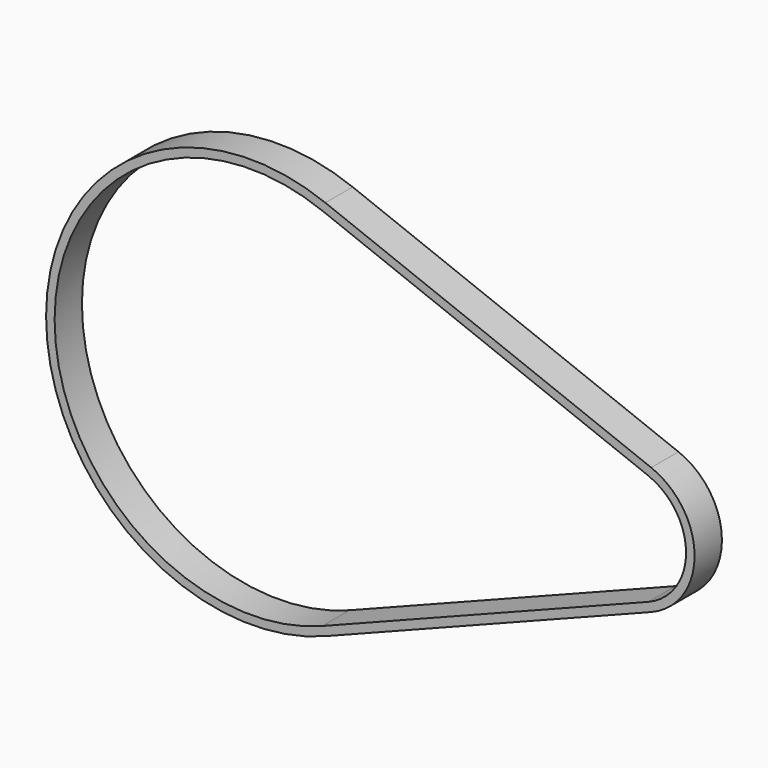
from build123d import *

# Parameters (mm, degrees)
F1_DEPTH = 12.7


with BuildPart() as f1:
    # F0 (on Front) → F1 (new body)
    with BuildSketch(Plane.XZ):
        with BuildLine():
            Line((148.936364, 23.661141), (27.709091, 70.983423))
            ThreePointArc((27.709091, 70.983423), (-76.2, 0), (27.709091, -70.983423))
            Line((27.709091, -70.983423), (148.936364, -23.661141))
            ThreePointArc((148.936364, -23.661141), (165.1, 0), (148.936364, 23.661141))
        make_face()
        with BuildLine():
            Line((147.781818, -20.703498), (26.554545, -68.02578))
            ThreePointArc((26.554545, -68.02578), (-73.025, 0), (26.554545, 68.02578))
            Line((26.554545, 68.02578), (147.781818, 20.703498))
            ThreePointArc((147.781818, 20.703498), (161.925, 0), (147.781818, -20.703498))
        make_face(mode=Mode.SUBTRACT)
    extrude(amount=F1_DEPTH)


solid = f1.part
